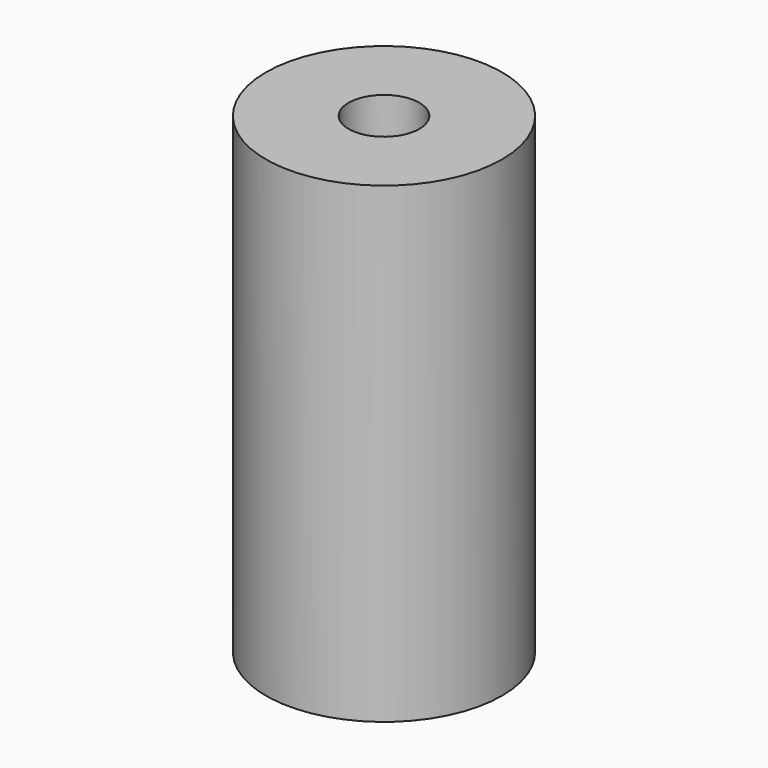
from build123d import *

# Parameters (mm, degrees)
SKETCH_R        = 5
PAD_DEPTH       = 20
SKETCH001_R     = 3.375
POCKET_DEPTH    = 17
SKETCH002_R     = 1.5
POCKET001_DEPTH = 20.001


with BuildPart() as part:
    # Sketch → Pad (new body)
    with BuildSketch(Plane.XY):
        Circle(SKETCH_R)
    extrude(amount=PAD_DEPTH)

    # Sketch001 → Pocket (cut)
    with BuildSketch(Plane(origin=(0, 0, 0), x_dir=(1, 0, 0), z_dir=(0, 0, -1))):
        Circle(SKETCH001_R)
    extrude(amount=-POCKET_DEPTH, mode=Mode.SUBTRACT)

    # Sketch002 → Pocket001 (cut, through all)
    with BuildSketch(Plane.XY.offset(20)):
        Circle(SKETCH002_R)
    extrude(amount=-POCKET001_DEPTH, mode=Mode.SUBTRACT)


solid = part.part
